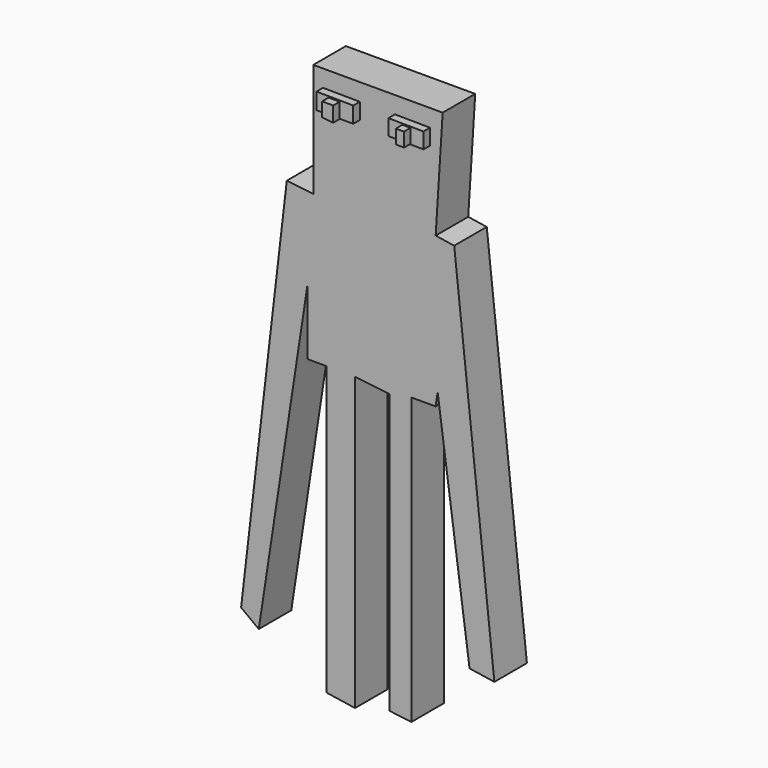
from build123d import *

# Parameters (mm, degrees)
F1_DEPTH = 5
F3_DEPTH = 6
F4_W     = 1.006404
F4_H     = 1.725264
F5_DEPTH = 7


with BuildPart() as f1:
    # F0 (on Front) → F1 (new body)
    with BuildSketch(Plane.XZ):
        Polygon((-9.354408, 7.877359), (-12.614951, 8.239642), (-18.230332, -39.76281), (-16.056636, -41.393083), (-10.078973, -2.266556), (-10.078973, -10.236774), (-7.724135, -10.236774), (-4.225735, -10.236774), (2.712137, -10.236774), (5.680322, -10.236774), (5.927842, -8.616642), (9.846571, -37.22683), (12.894985, -37.692559), (7.959375, 7.895558), (5.680322, 8.243747), (6.543175, 21.825243), (-9.354408, 21.825243), align=None)
        Polygon((-4.225735, -10.236774), (-7.724135, -10.236774), (-7.724135, -45.559332), (-4.225735, -46.09381), align=None)
        Polygon((2.712137, -10.236774), (-4.225735, -10.236774), (0, -10.731105), (0, -45.015905), (2.712137, -45.333174), align=None)
    extrude(amount=F1_DEPTH)

    # F2 (on Front) → F3 (join)
    with BuildSketch(Plane.XZ):
        Polygon((-3.647329, 19.689403), (-8.165929, 19.729748), (-8.165929, 17.712517), (-3.647329, 17.712517), align=None)
        Polygon((4.986425, 17.752862), (4.986425, 19.366648), (4.986425, 19.691204), (0.669532, 19.729748), (0.669532, 17.791406), align=None)
    extrude(amount=F3_DEPTH)

    # F4 (on Front) → F5 (join)
    with BuildSketch(Plane.XZ):
        Polygon((-6.671616, 19.56287), (-6.671616, 17.837606), (-5.305782, 17.693834), (-5.305782, 19.56287), align=None)
        with Locations((2.889219, 18.700238)):
            Rectangle(F4_W, F4_H)
    extrude(amount=F5_DEPTH)


solid = f1.part
